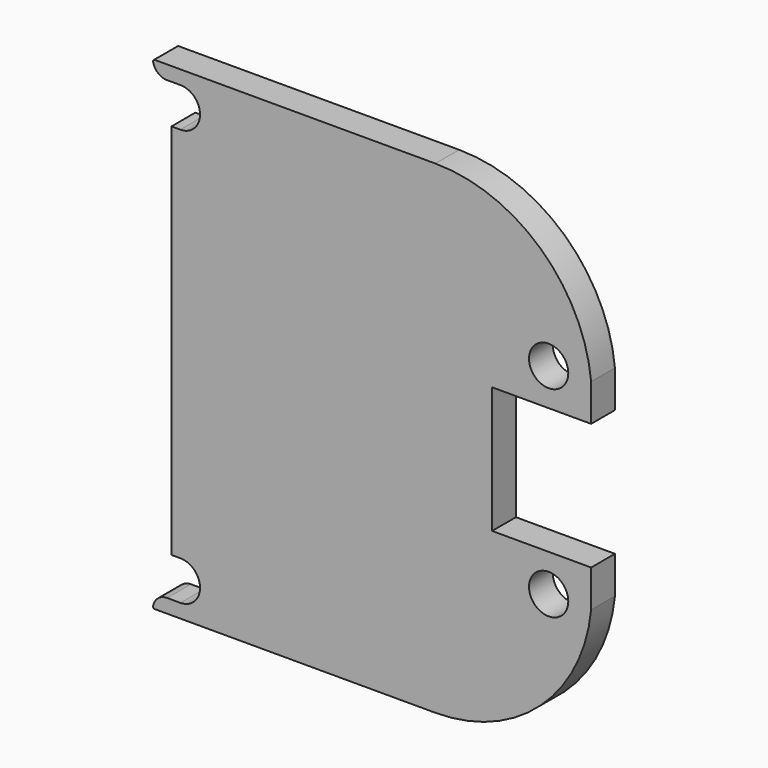
from build123d import *

# Parameters (mm, degrees)
F0_W     = 68.523422
F0_H     = 74.860842
F1_DEPTH = 4
F2_R     = 2.63906
F3_DEPTH = 4.001
F4_W     = 1.2
F4_H     = 50.72188
F5_DEPTH = 4
F6_R     = 0.254


with BuildPart() as f1:
    # F0 (on Front) → F1 (new body)
    with BuildSketch(Plane.XZ):
        Rectangle(F0_W, F0_H)
    extrude(amount=F1_DEPTH)

    # F2 (on face) → F3 (cut, through all)
    with BuildSketch(Plane.XZ.offset(4)):
        with Locations((-34.261711, 28)):
            Circle(F2_R)
        with Locations((15.238289, 13.5)):
            Circle(F2_R)
        with Locations((-34.261711, -28)):
            Circle(F2_R)
        with Locations((15.238289, -13.5)):
            Circle(F2_R)
        with BuildLine():
            Line((20.95, 8.5), (7.638289, 8.5))
            Line((7.638289, 8.5), (7.638289, 0))
            Line((7.638289, 0), (34.261711, 0))
            Line((34.261711, 0), (34.261711, 8.5))
            Line((34.261711, 8.5), (34.261711, 37.430421))
            Line((34.261711, 37.430421), (-34.261711, 37.430421))
            Line((-34.261711, 37.430421), (-34.261711, 32.5))
            Line((-34.261711, 32.5), (0, 32.5))
            ThreePointArc((0, 32.5), (14.141274, 27.042549), (20.95, 13.5))
            Line((20.95, 13.5), (20.95, 8.5))
        make_face()
        with BuildLine():
            Line((34.261711, 0), (7.638289, 0))
            Line((7.638289, 0), (7.638289, -8.5))
            Line((7.638289, -8.5), (20.95, -8.5))
            Line((20.95, -8.5), (20.95, -13.5))
            ThreePointArc((20.95, -13.5), (14.141274, -27.042549), (0, -32.5))
            Line((0, -32.5), (-34.261711, -32.5))
            Line((-34.261711, -32.5), (-34.261711, -37.430421))
            Line((-34.261711, -37.430421), (34.261711, -37.430421))
            Line((34.261711, -37.430421), (34.261711, -8.5))
            Line((34.261711, -8.5), (34.261711, 0))
        make_face()
    extrude(amount=-F3_DEPTH, mode=Mode.SUBTRACT)

    # F4 (on face) → F5 (join, through all)
    with BuildSketch(Plane.XZ.offset(4)):
        with BuildLine():
            Line((-34.261711, -32.5), (-34.261711, -30.63906))
            Line((-34.261711, -30.63906), (-36.061711, -30.63906))
            ThreePointArc((-36.061711, -30.63906), (-37.393081, -31.181533), (-37.966201, -32.5))
            Line((-37.966201, -32.5), (-34.261711, -32.5))
        make_face()
        with Locations((-34.861711, 0)):
            Rectangle(F4_W, F4_H)
        with BuildLine():
            Line((-36.061711, 30.63906), (-34.261711, 30.63906))
            Line((-34.261711, 30.63906), (-34.261711, 32.5))
            Line((-34.261711, 32.5), (-37.966201, 32.5))
            ThreePointArc((-37.966201, 32.5), (-37.393081, 31.181533), (-36.061711, 30.63906))
        make_face()
    extrude(amount=-F5_DEPTH)

    # F6
    f6_edges = [f1.edges().sort_by_distance(p)[0] for p in [
        (-37.966201, -2, -32.5),
        (-37.966201, -2, 32.5),
    ]]
    fillet(f6_edges, radius=F6_R)


solid = f1.part
